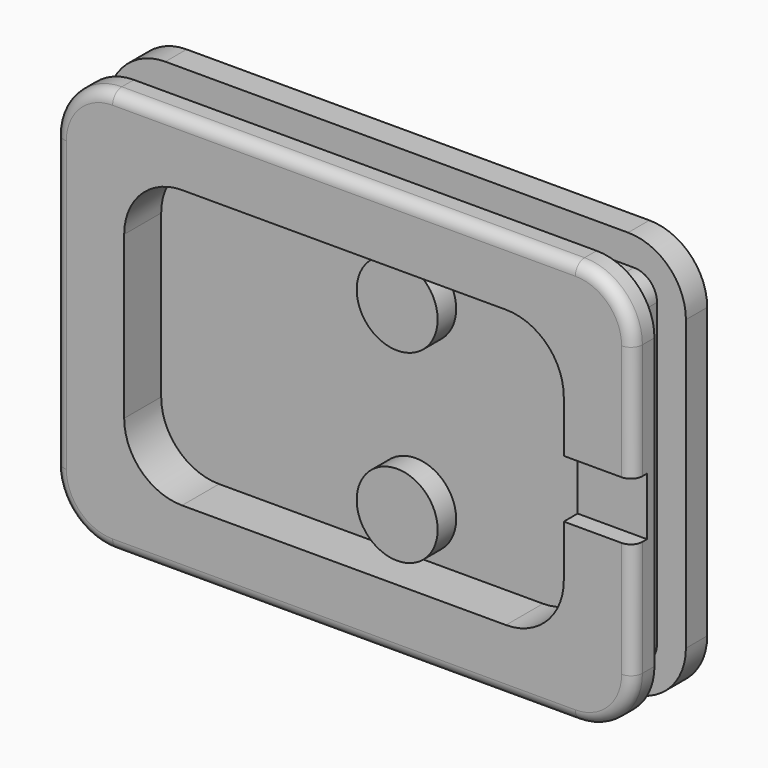
from build123d import *

# Parameters (mm, degrees)
F0_W      = 50
F0_H      = 35
F1_DEPTH  = 8
F2_W      = 38
F2_H      = 24
F3_DEPTH  = 4
F4_R      = 3.5
F6_DEPTH  = 2
F5_R      = 3.5
F7_DEPTH  = 2
F8_W      = 6
F8_H      = 5
F9_DEPTH  = 1.5
F10_W     = 50
F10_H     = 3.4
F14_DEPTH = 2.5
F11_W     = 3.4
F11_H     = 35
F15_DEPTH = 2.5
F12_W     = 50
F12_H     = 3.4
F16_DEPTH = 2.5
F13_W     = 3.4
F13_H     = 35
F17_DEPTH = 2.5
F18_R     = 5
F19_R     = 1
F20_R     = 2


with BuildPart() as f1:
    # F0 (on Front) → F1 (new body)
    with BuildSketch(Plane.XZ):
        with Locations((25, 17.5)):
            Rectangle(F0_W, F0_H)
    extrude(amount=F1_DEPTH)

    # F2 (on face) → F3 (cut)
    with BuildSketch(Plane.XZ.offset(8)):
        with Locations((25, 17.5)):
            Rectangle(F2_W, F2_H)
    extrude(amount=-F3_DEPTH, mode=Mode.SUBTRACT)

    # F4 (on face) → F6 (join)
    with BuildSketch(Plane.XZ.offset(4)):
        with Locations((28, 9.5)):
            Circle(F4_R)
    extrude(amount=F6_DEPTH)

    # F5 (on face) → F7 (join)
    with BuildSketch(Plane.XZ.offset(4)):
        with Locations((28, 25.5)):
            Circle(F5_R)
    extrude(amount=F7_DEPTH)

    # F8 (on face) → F9 (cut)
    with BuildSketch(Plane.XZ.offset(8)):
        with Locations((47, 17.5)):
            Rectangle(F8_W, F8_H)
    extrude(amount=-F9_DEPTH, mode=Mode.SUBTRACT)

    # F10 (on face) → F14 (cut)
    with BuildSketch(Plane(origin=(0, 0, 0), x_dir=(1, 0, 0), z_dir=(0, 0, -1))):
        with Locations((25, 4)):
            Rectangle(F10_W, F10_H)
    extrude(amount=-F14_DEPTH, mode=Mode.SUBTRACT)

    # F11 (on face) → F15 (cut)
    with BuildSketch(Plane(origin=(0, 0, 0), x_dir=(0, -1, 0), z_dir=(-1, 0, 0))):
        with Locations((4, 17.5)):
            Rectangle(F11_W, F11_H)
    extrude(amount=-F15_DEPTH, mode=Mode.SUBTRACT)

    # F12 (on face) → F16 (cut)
    with BuildSketch(Plane.XY.offset(35)):
        with Locations((25, -4)):
            Rectangle(F12_W, F12_H)
    extrude(amount=-F16_DEPTH, mode=Mode.SUBTRACT)

    # F13 (on face) → F17 (cut)
    with BuildSketch(Plane.YZ.offset(50)):
        with Locations((-4, 17.5)):
            Rectangle(F13_W, F13_H)
    extrude(amount=-F17_DEPTH, mode=Mode.SUBTRACT)

    # F18
    f18_edges = [f1.edges().sort_by_distance(p)[0] for p in [
        (0, -1.15, 35),
        (0, -6.85, 35),
        (0, -1.15, 0),
        (0, -6.85, 0),
        (50, -1.15, 0),
        (50, -6.85, 0),
        (50, -1.15, 35),
        (50, -6.85, 35),
        (44, -6, 29.5),
        (44, -6, 5.5),
        (6, -6, 5.5),
        (6, -6, 29.5),
    ]]
    fillet(f18_edges, radius=F18_R)

    # F19
    f19_edges = [f1.edges().sort_by_distance(p)[0] for p in [
        (25, -8, 0),
    ]]
    fillet(f19_edges, radius=F19_R)

    # F20
    f20_edges = [f1.edges().sort_by_distance(p)[0] for p in [
        (2.5, -4, 32.5),
        (2.5, -4, 2.5),
        (47.5, -4, 2.5),
        (47.5, -4, 32.5),
    ]]
    fillet(f20_edges, radius=F20_R)


solid = f1.part
